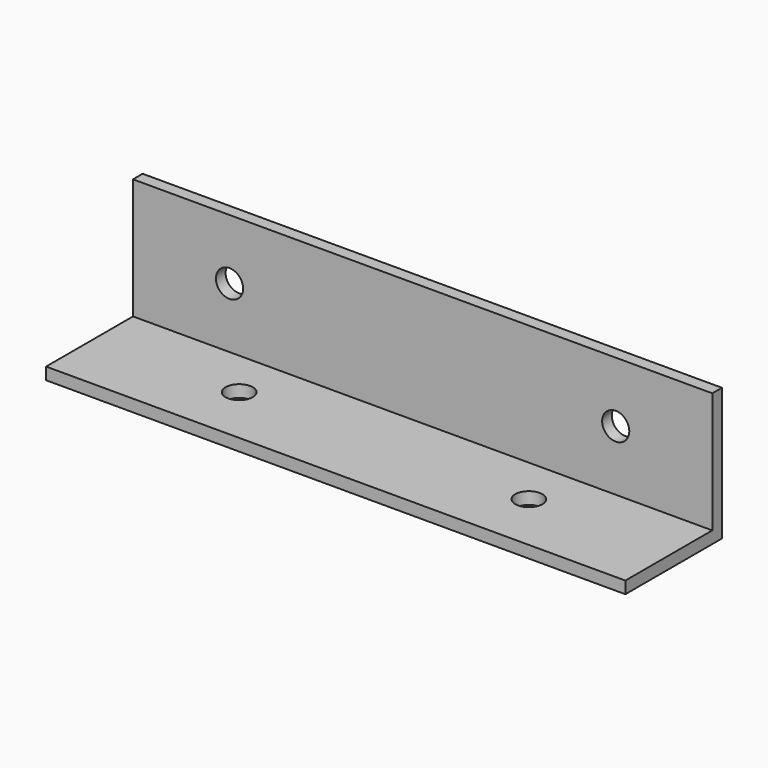
from build123d import *

# Parameters (mm, degrees)
F0_W     = 76.2
F0_H     = 15.875
F1_DEPTH = 1.5875
F2_W     = 76.2
F2_H     = 1.5875
F3_DEPTH = 15.875
F4_R     = 1.785938
F5_DEPTH = 1.5875
F6_R     = 1.785938
F7_DEPTH = 1.5875


with BuildPart() as f1:
    # F0 (on Top) → F1 (new body)
    with BuildSketch(Plane.XY):
        Rectangle(F0_W, F0_H)
    extrude(amount=F1_DEPTH)

    # F2 (on face) → F3 (join)
    with BuildSketch(Plane.XY.offset(1.5875)):
        with Locations((0, 7.14375)):
            Rectangle(F2_W, F2_H)
    extrude(amount=F3_DEPTH)

    # F4 (on face) → F5 (cut, through all)
    with BuildSketch(Plane.XY.offset(1.5875)):
        with Locations((-19.05, 0)):
            Circle(F4_R)
        with Locations((19.05, 0)):
            Circle(F4_R)
    extrude(amount=-F5_DEPTH, mode=Mode.SUBTRACT)

    # F6 (on face) → F7 (cut, through all)
    with BuildSketch(Plane.XZ.offset(-6.35)):
        with Locations((-25.4, 9.525)):
            Circle(F6_R)
        with Locations((25.4, 9.525)):
            Circle(F6_R)
    extrude(amount=-F7_DEPTH, mode=Mode.SUBTRACT)


solid = f1.part
